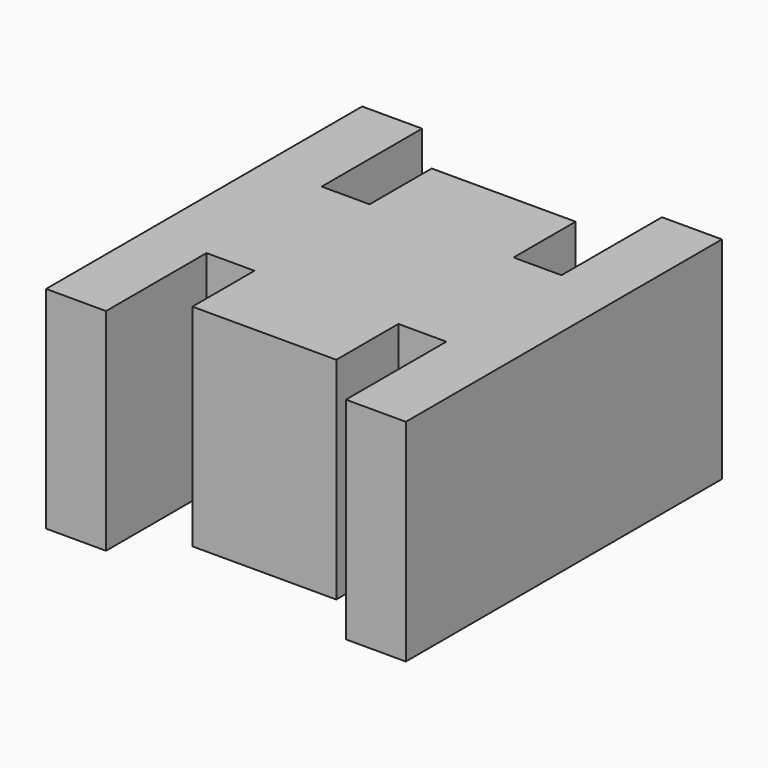
from build123d import *

# Parameters (mm, degrees)
F0_W     = 15
F0_H     = 16.472
F1_DEPTH = 8.8
F3_DEPTH = 25


with BuildPart() as f1:
    # F0 (on Top) → F1 (new body)
    with BuildSketch(Plane.XY):
        with Locations((-15.604839, 16.318845)):
            Rectangle(F0_W, F0_H)
    extrude(amount=F1_DEPTH)

    # F2 (on face) → F3 (cut)
    with BuildSketch(Plane.XY.offset(8.8)):
        Polygon((-20.604839, 13.318845), (-20.604839, 8.082845), (-10.604839, 8.082845), (-10.604839, 13.318845), (-12.604839, 13.318845), (-12.604839, 10.082845), (-18.604839, 10.082845), (-18.604839, 13.318845), align=None)
        Polygon((-10.604839, 24.554845), (-20.604839, 24.554845), (-20.604839, 19.318845), (-18.604839, 19.318845), (-18.604839, 22.554845), (-12.604839, 22.554845), (-12.604839, 19.318845), (-10.604839, 19.318845), align=None)
    extrude(amount=-F3_DEPTH, mode=Mode.SUBTRACT)


solid = f1.part
